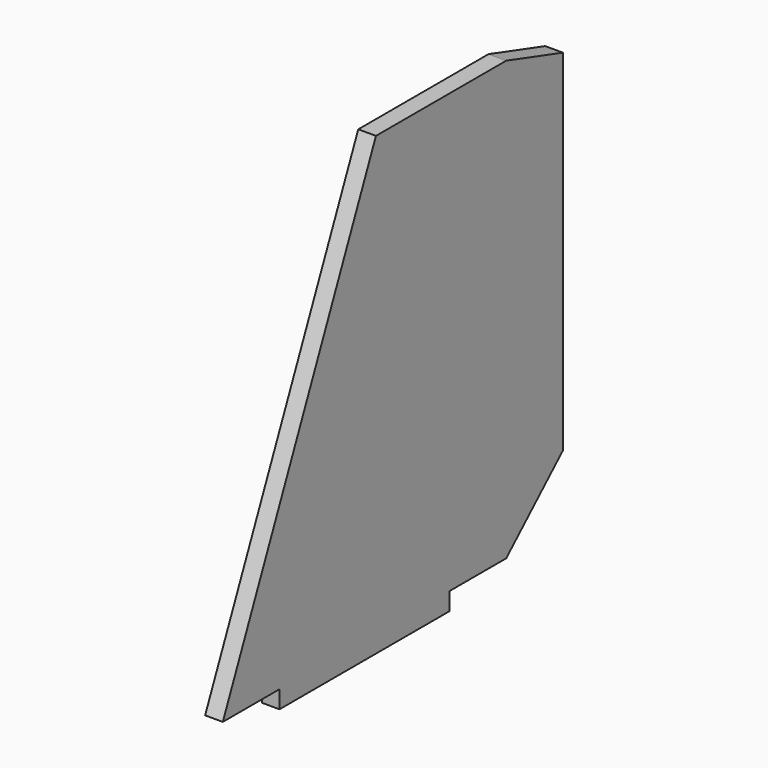
from build123d import *

# Parameters (mm, degrees)
F1_DEPTH = 3.175


with BuildPart() as f1:
    # F0 (on Right) → F1 (new body, symmetric)
    with BuildSketch(Plane.YZ):
        Polygon((50.8, -58.581289), (0, -58.581289), (-25.4, -58.581289), (-25.4, -64.931289), (50.8, -64.931289), align=None)
        Polygon((-25.4, -58.581289), (0, -58.581289), (50.8, -58.581289), (76.2, -58.581289), (101.6, -34.879341), (101.6, 90.705617), (76.2, 98.488349), (17.829527, 98.488349), (-50.8, -58.581289), align=None)
    extrude(amount=F1_DEPTH, both=True)


solid = f1.part
